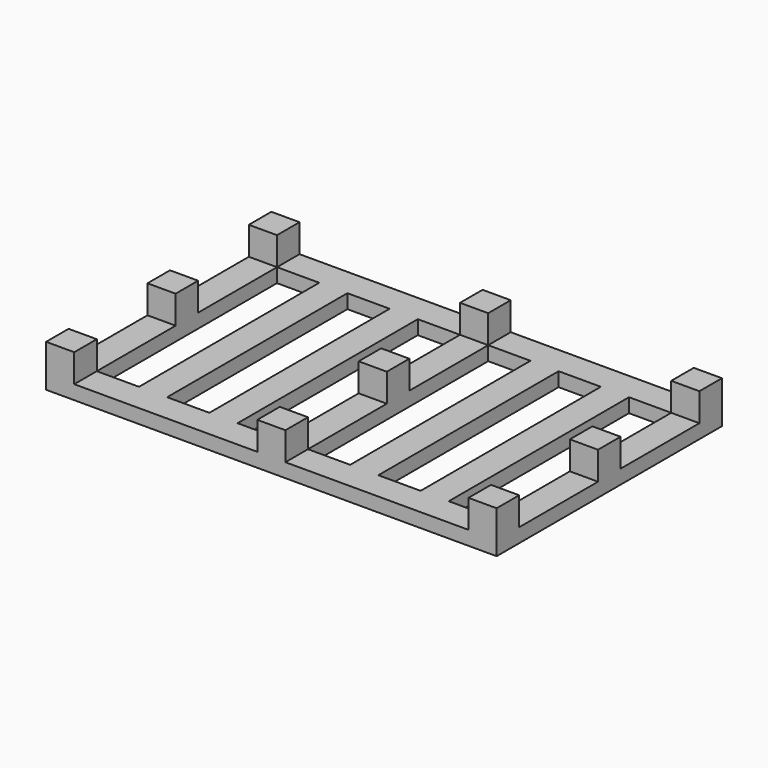
from build123d import *

# Parameters (mm, degrees)
F0_W     = 160
F0_H     = 100
F0_W_2   = 15
F0_H_2   = 80
F1_DEPTH = 5
F2_W     = 10
F2_H     = 10
F3_DEPTH = 10


with BuildPart() as f1:
    # F0 (on Top) → F1 (new body)
    with BuildSketch(Plane.XY):
        with Locations((80, 50)):
            Rectangle(F0_W, F0_H)
        with Locations((17.5, 50)):
            Rectangle(F0_W_2, F0_H_2, mode=Mode.SUBTRACT)
        with Locations((42.5, 50)):
            Rectangle(F0_W_2, F0_H_2, mode=Mode.SUBTRACT)
        with Locations((67.5, 50)):
            Rectangle(F0_W_2, F0_H_2, mode=Mode.SUBTRACT)
        with Locations((92.5, 50)):
            Rectangle(F0_W_2, F0_H_2, mode=Mode.SUBTRACT)
        with Locations((117.5, 50)):
            Rectangle(F0_W_2, F0_H_2, mode=Mode.SUBTRACT)
        with Locations((142.5, 50)):
            Rectangle(F0_W_2, F0_H_2, mode=Mode.SUBTRACT)
    extrude(amount=F1_DEPTH)

    # F2 (on face) → F3 (join)
    with BuildSketch(Plane.XY.offset(5)):
        with Locations((5, 95)):
            Rectangle(F2_W, F2_H)
        with Locations((80, 95)):
            Rectangle(F2_W, F2_H)
        with Locations((155, 95)):
            Rectangle(F2_W, F2_H)
        with Locations((155, 50)):
            Rectangle(F2_W, F2_H)
        with Locations((80, 50)):
            Rectangle(F2_W, F2_H)
        with Locations((5, 50)):
            Rectangle(F2_W, F2_H)
        with Locations((5, 5)):
            Rectangle(F2_W, F2_H)
        with Locations((155, 5)):
            Rectangle(F2_W, F2_H)
        with Locations((80, 5)):
            Rectangle(F2_W, F2_H)
    extrude(amount=F3_DEPTH)


solid = f1.part
